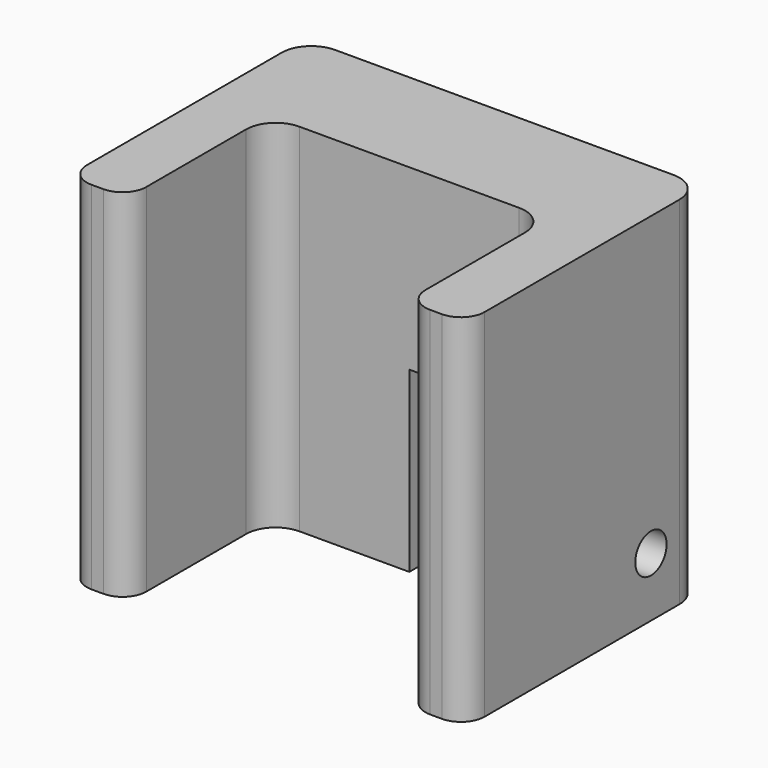
from build123d import *

# Parameters (mm, degrees)
F1_DEPTH       = 30
F2_W           = 3.0429003396
F2_H           = 15
F3_DEPTH       = 25.001
F5_D           = 3.3
F5_START       = 0.0125315
F5_CBORE_D     = 6.5
F5_CBORE_DEPTH = 3


with BuildPart() as f1:
    # F0 (on Top) → F1 (new body)
    with BuildSketch(Plane.XY):
        with BuildLine():
            ThreePointArc((-11.2567170643, -9.8372937679), (-10.6709306267, -11.2515073303), (-9.2567170643, -11.8372937679))
            Line((-9.2567170643, -11.8372937679), (-8.2567170643, -11.8372937679))
            ThreePointArc((-8.2567170643, -11.8372937679), (-6.8425035019, -11.2515073303), (-6.2567170643, -9.8372937679))
            Line((-6.2567170643, -9.8372937679), (-6.2567170643, 0.6627062321))
            ThreePointArc((-6.2567170643, 0.6627062321), (-5.5244840173, 2.430473185), (-3.7567170643, 3.1627062321))
            Line((-3.7567170643, 3.1627062321), (14.7432829357, 3.1627062321))
            ThreePointArc((14.7432829357, 3.1627062321), (16.5110498887, 2.430473185), (17.2432829357, 0.6627062321))
            Line((17.2432829357, 0.6627062321), (17.2432829357, -9.8372937679))
            ThreePointArc((17.2432829357, -9.8372937679), (17.8290693733, -11.2515073303), (19.2432829357, -11.8372937679))
            Line((19.2432829357, -11.8372937679), (20.2432829357, -11.8372937679))
            ThreePointArc((20.2432829357, -11.8372937679), (21.6574964981, -11.2515073303), (22.2432829357, -9.8372937679))
            Line((22.2432829357, -9.8372937679), (22.2432829357, 10.6627062321))
            ThreePointArc((22.2432829357, 10.6627062321), (21.5110498887, 12.430473185), (19.7432829357, 13.1627062321))
            Line((19.7432829357, 13.1627062321), (-8.7567170643, 13.1627062321))
            ThreePointArc((-8.7567170643, 13.1627062321), (-10.5244840173, 12.430473185), (-11.2567170643, 10.6627062321))
            Line((-11.2567170643, 10.6627062321), (-11.2567170643, -9.8372937679))
        make_face()
    extrude(amount=F1_DEPTH)

    # F2 (on face) → F3 (cut, through all)
    with BuildSketch(Plane(origin=(0, 13.1627062321, 0), x_dir=(-1, 0, 0), z_dir=(0, 1, 0))):
        with Locations((-7.0147331055, 7.5)):
            Rectangle(F2_W, F2_H)
    extrude(amount=-F3_DEPTH, mode=Mode.SUBTRACT)

    # F5 (through all)
    # its depths count from where the whole tool has entered the part; down to there all is cleared
    with Locations(Plane(origin=(-11.2567170643, 0, 0), x_dir=(0, -1, 0), z_dir=(-1, 0, 0)).offset(-F5_START)):
        with Locations((-7.6627062321, 5)):
            CounterBoreHole(F5_D / 2, F5_CBORE_D / 2, F5_CBORE_DEPTH)


solid = f1.part
